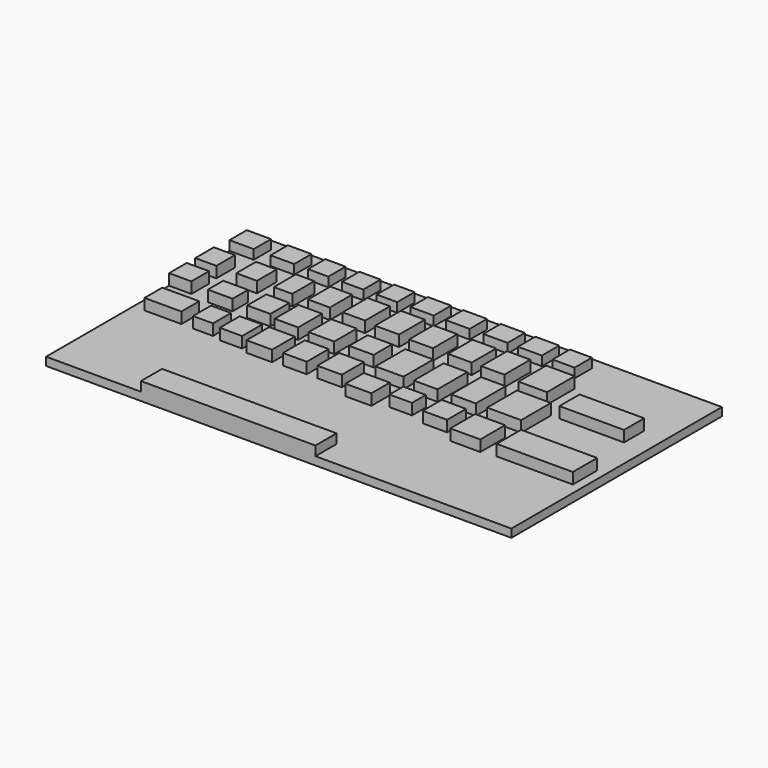
from build123d import *

# Parameters (mm, degrees)
F0_W     = 288.782075
F0_H     = 163.352266
F1_DEPTH = 5.08
F2_W     = 15.059188
F2_H     = 13.465754
F2_W_2   = 14.688864
F2_W_3   = 12.622907
F2_W_4   = 13.189614
F2_W_5   = 12.756806
F2_W_6   = 14.389988
F2_W_7   = 14.837095
F2_W_8   = 15.054709
F2_W_9   = 14.822775
F2_W_10  = 13.689365
F3_DEPTH = 5.842
F4_W     = 108.290506
F4_H     = 16.379602
F5_DEPTH = 5.842
F6_W     = 13.069794
F6_H     = 14.447321
F6_W_2   = 12.797505
F6_H_2   = 15.304588
F6_W_3   = 11.458419
F6_H_3   = 17.143417
F6_W_4   = 13.49812
F6_H_4   = 17.293982
F6_W_5   = 13.930906
F6_H_5   = 19.27505
F6_W_6   = 14.930427
F6_H_6   = 20.024683
F6_W_7   = 14.837095
F6_H_7   = 18.891268
F6_W_8   = 14.688871
F6_H_8   = 18.99891
F6_W_9   = 14.363708
F6_H_9   = 20.088118
F6_W_10  = 17.754339
F6_H_10  = 21.514323
F6_W_11  = 13.842166
F6_H_11  = 13.715633
F6_W_12  = 15.336946
F6_H_12  = 11.966504
F6_W_13  = 14.323011
F6_H_13  = 14.813163
F6_W_14  = 14.605261
F6_H_14  = 18.525428
F6_W_15  = 15.82228
F6_H_15  = 17.409948
F6_W_16  = 15.188619
F6_H_16  = 14.313415
F6_W_17  = 22.91315
F6_H_17  = 13.81641
F6_W_18  = 9.892102
F6_H_18  = 16.320752
F6_W_19  = 14.755823
F6_H_19  = 23.138981
F6_W_20  = 15.218579
F6_W_21  = 21.051738
F6_W_22  = 40.063784
F6_H_20  = 15.655063
F6_W_23  = 47.256365
F6_H_21  = 18.881655
F6_W_24  = 12.390971
F6_H_22  = 13.976591
F6_W_25  = 13.890229
F6_H_23  = 15.502113
F6_W_26  = 15.889235
F6_H_24  = 17.643357
F6_W_27  = 14.755819
F6_H_25  = 17.053898
F6_W_28  = 15.255572
F6_W_29  = 16.130783
F6_H_26  = 14.313408
F6_W_30  = 13.997871
F6_H_27  = 10.71711
F6_W_31  = 15.125354
F6_H_28  = 14.679253
F6_W_32  = 18.619925
F6_H_29  = 19.2571
F7_DEPTH = 6.858


with BuildPart() as f1:
    # F0 (on Top) → F1 (new body)
    with BuildSketch(Plane.XY):
        with Locations((-4.708923, 0.160061)):
            Rectangle(F0_W, F0_H)
    extrude(amount=F1_DEPTH)

    # F2 (on face) → F3 (join)
    with BuildSketch(Plane.XY.offset(5.08)):
        with Locations((-141.570367, 67.483317)):
            Rectangle(F2_W, F2_H)
        with Locations((-116.278112, 67.483317)):
            Rectangle(F2_W_2, F2_H)
        with Locations((-94.069093, 67.483317)):
            Rectangle(F2_W_3, F2_H)
        with Locations((-72.640784, 67.483317)):
            Rectangle(F2_W_4, F2_H)
        with Locations((-51.346382, 67.483317)):
            Rectangle(F2_W_5, F2_H)
        with Locations((-29.518751, 67.483317)):
            Rectangle(F2_W_6, F2_H)
        with Locations((-7.418547, 67.483317)):
            Rectangle(F2_W_7, F2_H)
        with Locations((15.999209, 67.483317)):
            Rectangle(F2_W_8, F2_H)
        with Locations((37.394049, 67.483317)):
            Rectangle(F2_W_9, F2_H)
        with Locations((58.271186, 67.483317)):
            Rectangle(F2_W_10, F2_H)
    extrude(amount=F3_DEPTH)

    # F4 (on face) → F5 (join)
    with BuildSketch(Plane.XY.offset(5.08)):
        with Locations((-36.067889, -73.326271)):
            Rectangle(F4_W, F4_H)
    extrude(amount=F5_DEPTH)

    # F6 (on face) → F7 (join)
    with BuildSketch(Plane.XY.offset(5.08)):
        with Locations((-142.565064, 41.434703)):
            Rectangle(F6_W, F6_H)
        with Locations((-117.223791, 41.863337)):
            Rectangle(F6_W_2, F6_H_2)
        with Locations((-94.610658, 42.782751)):
            Rectangle(F6_W_3, F6_H_3)
        with Locations((-72.486531, 43.047041)):
            Rectangle(F6_W_4, F6_H_4)
        with Locations((-50.759332, 44.011319)):
            Rectangle(F6_W_5, F6_H_5)
        with Locations((-29.248531, 43.244389)):
            Rectangle(F6_W_6, F6_H_6)
        with Locations((-7.418547, 41.669853)):
            Rectangle(F6_W_7, F6_H_7)
        with Locations((16.722579, 41.723674)):
            Rectangle(F6_W_8, F6_H_8)
        with Locations((37.164516, 42.268278)):
            Rectangle(F6_W_9, F6_H_9)
        with Locations((63.075055, 41.555175)):
            Rectangle(F6_W_10, F6_H_10)
        with Locations((-142.178878, 20.740474)):
            Rectangle(F6_W_11, F6_H_11)
        with Locations((-115.954071, 18.126391)):
            Rectangle(F6_W_12, F6_H_12)
        with Locations((-91.205612, 18.541897)):
            Rectangle(F6_W_13, F6_H_13)
        with Locations((-71.932961, 17.757031)):
            Rectangle(F6_W_14, F6_H_14)
        with Locations((-49.665319, 16.557304)):
            Rectangle(F6_W_15, F6_H_15)
        with Locations((-25.673699, 15.982273)):
            Rectangle(F6_W_16, F6_H_16)
        with Locations((-130.722303, -6.908205)):
            Rectangle(F6_W_17, F6_H_17)
        with Locations((-4.946051, 14.978605)):
            Rectangle(F6_W_18, F6_H_18)
        Polygon((7.496388, 23.138981), (0, 23.138981), (0, 6.818229), (-9.892102, 6.818229), (-9.892102, 0), (7.496388, 0), align=None)
        with Locations((21.294507, 11.56949)):
            Rectangle(F6_W_19, F6_H_19)
        with Locations((44.773805, 11.56949)):
            Rectangle(F6_W_20, F6_H_19)
        with Locations((69.993904, 11.56949)):
            Rectangle(F6_W_21, F6_H_19)
        with Locations((105.833657, 30.966513)):
            Rectangle(F6_W_22, F6_H_20)
        with Locations((110.443867, -17.380646)):
            Rectangle(F6_W_23, F6_H_21)
        with Locations((-105.748556, -6.988295)):
            Rectangle(F6_W_24, F6_H_22)
        with Locations((-87.151367, -7.751056)):
            Rectangle(F6_W_25, F6_H_23)
        with Locations((-67.871508, -8.821678)):
            Rectangle(F6_W_26, F6_H_24)
        with Locations((-46.293752, -8.526949)):
            Rectangle(F6_W_27, F6_H_25)
        with Locations((-24.733937, -8.526949)):
            Rectangle(F6_W_28, F6_H_25)
        with Locations((-1.82671, -16.142811)):
            Rectangle(F6_W_29, F6_H_26)
        with Locations((20.91553, -13.505332)):
            Rectangle(F6_W_30, F6_H_27)
        with Locations((44.727193, -14.763038)):
            Rectangle(F6_W_31, F6_H_28)
        with Locations((68.421774, -18.559552)):
            Rectangle(F6_W_32, F6_H_29)
    extrude(amount=F7_DEPTH)


solid = f1.part
